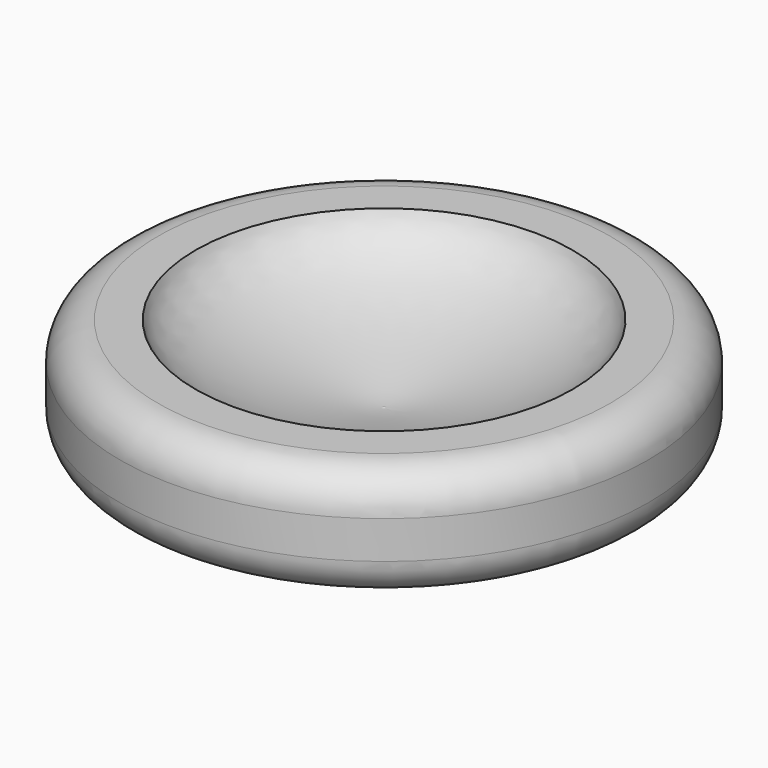
from build123d import *


with BuildPart() as f1:
    # F0 (on Front) → F1 (revolve)
    with BuildSketch(Plane.XZ):
        with BuildLine():
            add(Edge.make_bspline(
                [(-20.4894867882, -10.9176363358), (-20.5686540811, -10.8091667312), (-20.5258820569, -10.6642469875), (-20.4894867882, -10.575729871)],
                knots=[0.9451374733, 0.9451374733, 0.9451374733, 0.9451374733, 1, 1, 1, 1], degree=3))
            Line((-20.4894867882, -10.9176363358), (-20.4894867882, -10.575729871))
        make_face()
    revolve(axis=Axis((-20.4894867882, 0, -15.6199884293), (0, 0, -1)))


with BuildPart() as f1b:
    # F0 (on Front) → F1, piece 2 (revolve)
    with BuildSketch(Plane.XZ):
        with BuildLine():
            Line((39.5105132118, 9.3357530125), (29.5105132118, 9.3357530125))
            add(Edge.make_bspline(
                [(29.5105132118, 9.3357530125), (26.0332416174, -0.7391355881), (-5.4818401182, -9.5349051038), (-19.9939770416, -11.5965498663), (-20.4894867882, -10.9176363358)],
                knots=[0, 0, 0, 0, 0.6017517675, 0.9451374733, 0.9451374733, 0.9451374733, 0.9451374733], degree=3))
            Line((-20.4894867882, -10.9176363358), (-20.4894867882, -20.6642469875))
            Line((-20.4894867882, -20.6642469875), (39.5105132118, -20.6642469875))
            ThreePointArc((39.5105132118, -20.6642469875), (46.5815810236, -17.7353147994), (49.5105132118, -10.6642469875))
            Line((49.5105132118, -10.6642469875), (49.5105132118, -0.6642469875))
            ThreePointArc((49.5105132118, -0.6642469875), (46.5815810236, 6.4068208243), (39.5105132118, 9.3357530125))
        make_face()
    revolve(axis=Axis((-20.4894867882, 0, -15.6199884293), (0, 0, -1)))


solid = Compound([f1.part, f1b.part])
